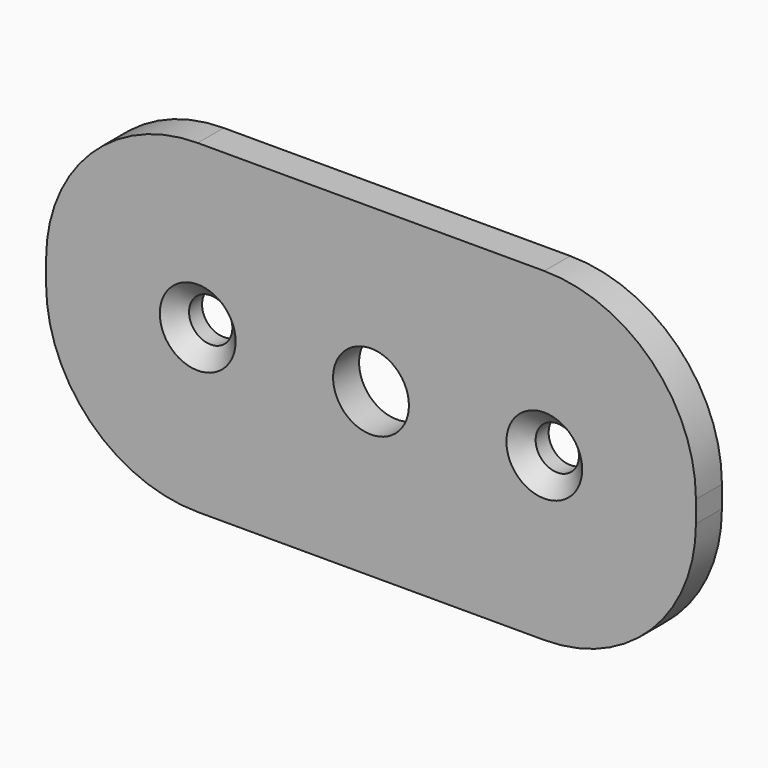
from build123d import *

# Parameters (mm, degrees)
F0_R     = 2
F0_R_2   = 3.5
F1_DEPTH = 3
F2_SIZE  = 1.5


with BuildPart() as f1:
    # F0 (on Front) → F1 (new body)
    with BuildSketch(Plane.XZ):
        with BuildLine():
            Line((-16, -15), (16, -15))
            ThreePointArc((16, -15), (25.899495, -10.899495), (30, -1))
            Line((30, -1), (30, 1))
            ThreePointArc((30, 1), (25.899495, 10.899495), (16, 15))
            Line((16, 15), (-16, 15))
            ThreePointArc((-16, 15), (-25.899495, 10.899495), (-30, 1))
            Line((-30, 1), (-30, -1))
            ThreePointArc((-30, -1), (-25.899495, -10.899495), (-16, -15))
        make_face()
        with Locations((-16, 0)):
            Circle(F0_R, mode=Mode.SUBTRACT)
        Circle(F0_R_2, mode=Mode.SUBTRACT)
        with Locations((16, 0)):
            Circle(F0_R, mode=Mode.SUBTRACT)
    extrude(amount=F1_DEPTH)

    # F2
    f2_edges = [f1.edges().sort_by_distance(p)[0] for p in [
        (-18, -3, 0),
        (14, -3, 0),
    ]]
    chamfer(f2_edges, length=F2_SIZE)


solid = f1.part
